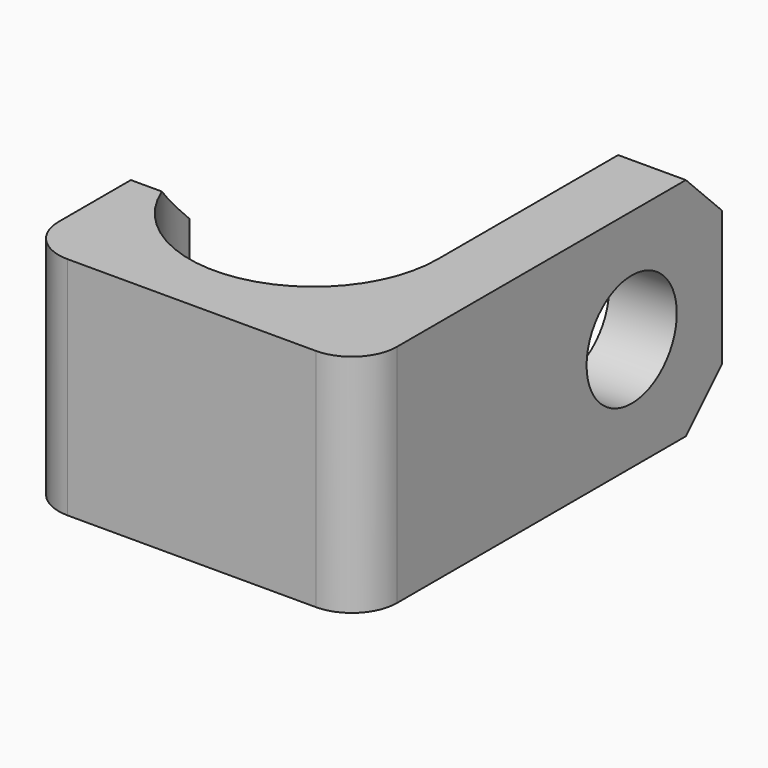
from build123d import *

# Parameters (mm, degrees)
F1_DEPTH = 10
F2_SIZE  = 2
F3_R     = 2.5
F4_DEPTH = 25


with BuildPart() as f1:
    # F0 (on Top) → F1 (new body)
    with BuildSketch(Plane.XY):
        with BuildLine():
            ThreePointArc((-2, 0), (-0.585786, 0.585786), (0, 2))
            Line((0, 2), (0, 20))
            Line((0, 20), (-3, 20))
            Line((-3, 20), (-3, 8))
            ThreePointArc((-3, 8), (-8.5, 2.5), (-14, 8))
            Line((-14, 8), (-15, 8))
            Line((-15, 8), (-15, 2))
            ThreePointArc((-15, 2), (-14.414214, 0.585786), (-13, 0))
            Line((-13, 0), (-2, 0))
        make_face()
    extrude(amount=F1_DEPTH)

    # F2
    f2_edges = [f1.edges().sort_by_distance(p)[0] for p in [
        (-14.5, 8, 0),
        (-14.5, 8, 10),
        (-1.5, 20, 0),
        (-1.5, 20, 10),
    ]]
    chamfer(f2_edges, length=F2_SIZE)

    # F3 (on face) → F4 (cut)
    with BuildSketch(Plane(origin=(-3, 0, 0), x_dir=(0, -1, 0), z_dir=(-1, 0, 0))):
        with Locations((-15, 5)):
            Circle(F3_R)
    extrude(amount=-F4_DEPTH, mode=Mode.SUBTRACT)


solid = f1.part
